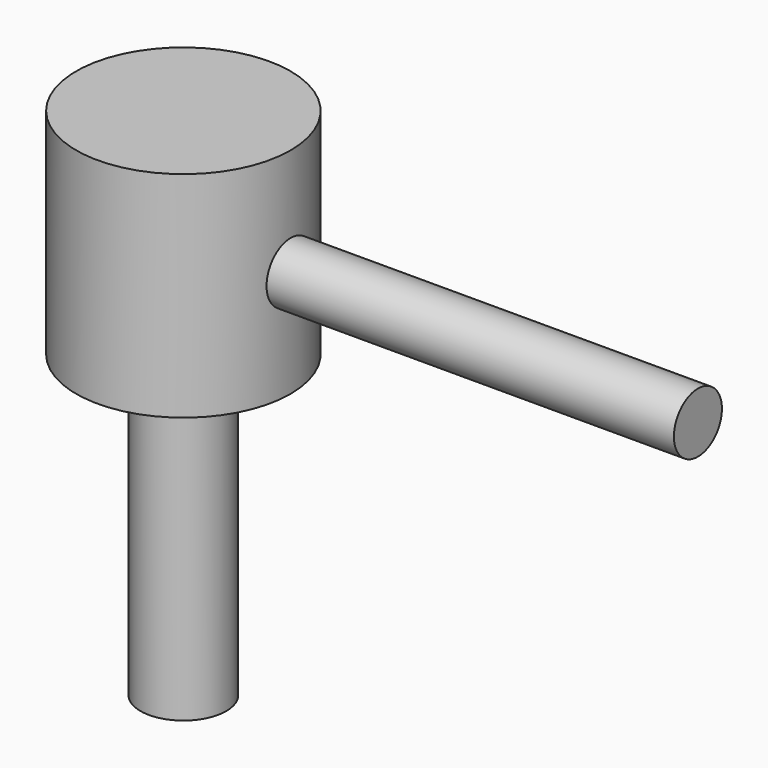
from build123d import *

# Parameters (mm, degrees)
F0_W     = 60.325
F0_H     = 4.445
F3_R     = 6.35
F4_DEPTH = 44.45


with BuildPart() as f1:
    # F0 (on Front) → F1 (revolve)
    with BuildSketch(Plane.XZ):
        Polygon((0, 31.75), (0, 0), (15.875, 0), (15.875, 15.875), (15.875, 20.32), (15.875, 31.75), align=None)
    revolve(axis=Axis((0, 0, 15.875), (0, 0, 1)))

    # F3 (on face) → F4 (join)
    with BuildSketch(Plane(origin=(0, 0, 0), x_dir=(1, 0, 0), z_dir=(0, 0, -1))):
        Circle(F3_R)
    extrude(amount=F4_DEPTH)


with BuildPart() as f2:
    # F0 (on Front) → F2 (revolve)
    with BuildSketch(Plane.XZ):
        with Locations((46.0375, 18.0975)):
            Rectangle(F0_W, F0_H)
    revolve(axis=Axis((46.0375, 0, 15.875), (1, 0, 0)))


solid = Compound([f1.part, f2.part])
